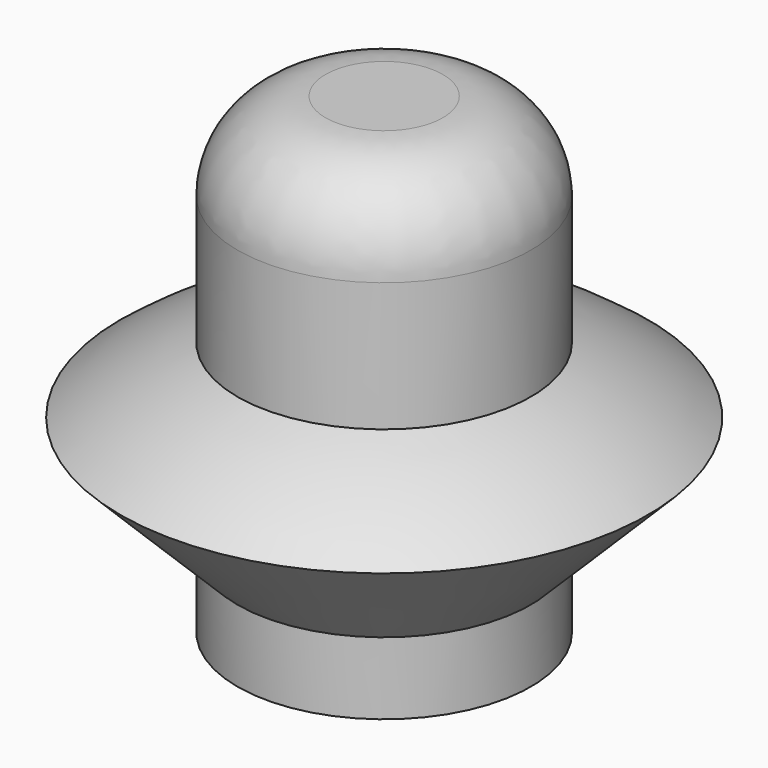
from build123d import *

# Parameters (mm, degrees)
SKETCH036_W     = 2.05
SKETCH036_H     = 2.05
POCKET015_DEPTH = 5
CHAMFER006_SIZE = 0.5


with BuildPart() as part:
    # Sketch035 (on DatumPlane) → Revolution (revolve)
    with BuildSketch(Plane(origin=(100, 13, 0), x_dir=(1, 0, 0), z_dir=(0, -1, 0))):
        with BuildLine():
            ThreePointArc((-2.5, 7.3), (-3.544517, 6.819494), (-4.5, 6.18))
            Line((-4.5, 6.18), (-2.5, 4.18))
            Line((-2.5, 4.18), (-2.5, 2.95))
            Line((-2.5, 2.95), (0, 2.95))
            Line((0, 11), (0, 2.95))
            Line((-1, 11), (0, 11))
            ThreePointArc((-1, 11), (-2.06066, 10.56066), (-2.5, 9.5))
            Line((-2.5, 7.3), (-2.5, 9.5))
        make_face()
    revolve(axis=Axis((100, 13, 0), (0, 0, 1)))

    # Sketch036 → Pocket015 (cut)
    with BuildSketch(Plane.XY):
        with Locations((100, 13)):
            Rectangle(SKETCH036_W, SKETCH036_H)
    extrude(amount=POCKET015_DEPTH, mode=Mode.SUBTRACT)

    # Chamfer006
    chamfer006_edges = [part.edges().sort_by_distance(p)[0] for p in [
        (101.025, 13, 2.95),
        (100, 14.025, 2.95),
        (98.975, 13, 2.95),
        (100, 11.975, 2.95),
    ]]
    chamfer(chamfer006_edges, length=CHAMFER006_SIZE)


solid = part.part
